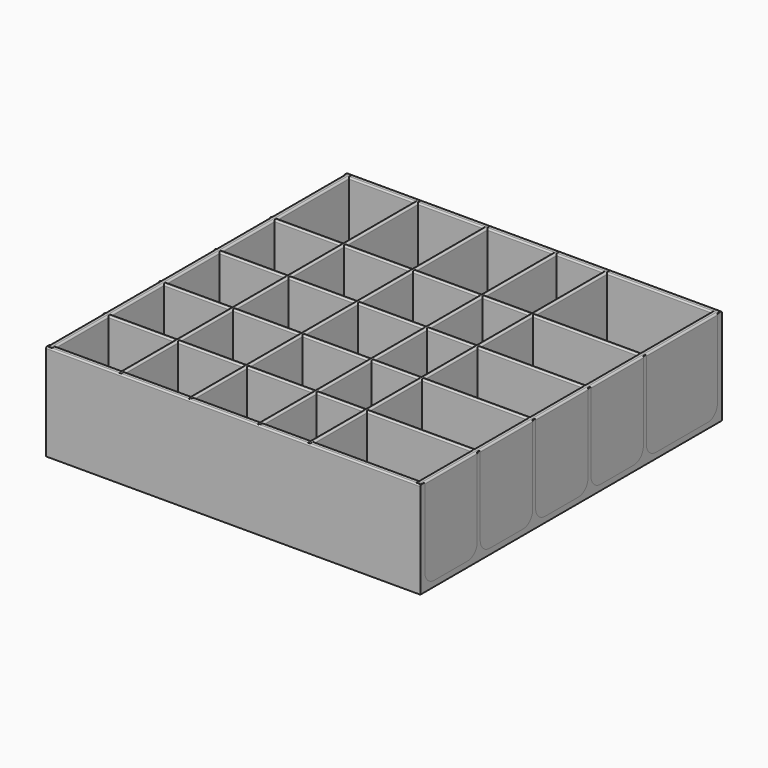
from build123d import *

# Parameters (mm, degrees)
F2_DEPTH = 100
F3_DEPTH = 100


with BuildPart() as f2:
    # F0 (on Front) → F2 (new body, symmetric)
    with BuildSketch(Plane.XZ):
        with BuildLine():
            Line((-68.35, -22.349771), (-90.65, -22.349771))
            ThreePointArc((-90.65, -22.349771), (-95.140128, -20.489899), (-97, -15.999771))
            Line((-97, -15.999771), (-97, 25.4))
            ThreePointArc((-97, 25.4), (-97.264245, 26.037945), (-97.90219, 26.30219))
            Line((-97.90219, 26.30219), (-99.09781, 26.30219))
            ThreePointArc((-99.09781, 26.30219), (-99.735755, 26.037945), (-100, 25.4))
            Line((-100, 25.4), (-100, -25.4))
            Line((-100, -25.4), (100, -25.4))
            Line((100, -25.4), (100, 25.399994))
            ThreePointArc((100, 25.399994), (99.735755, 26.037939), (99.09781, 26.302184))
            Line((99.09781, 26.302184), (97.90219, 26.302184))
            ThreePointArc((97.90219, 26.302184), (97.264245, 26.037939), (97, 25.399994))
            Line((97, 25.399994), (97, -15.999771))
            ThreePointArc((97, -15.999771), (95.140128, -20.489899), (90.65, -22.349771))
            Line((90.65, -22.349771), (47.35, -22.349771))
            ThreePointArc((47.35, -22.349771), (42.859872, -20.489899), (41, -15.999771))
            Line((41, -15.999771), (41, 25.399994))
            ThreePointArc((41, 25.399994), (40.735755, 26.037939), (40.09781, 26.302184))
            Line((40.09781, 26.302184), (39.90219, 26.302184))
            ThreePointArc((39.90219, 26.302184), (39.264245, 26.037939), (39, 25.399994))
            Line((39, 25.399994), (39, -15.999771))
            ThreePointArc((39, -15.999771), (37.140128, -20.489899), (32.65, -22.349771))
            Line((32.65, -22.349771), (20.35, -22.349771))
            ThreePointArc((20.35, -22.349771), (15.859872, -20.489899), (14, -15.999771))
            Line((14, -15.999771), (14, 25.399994))
            ThreePointArc((14, 25.399994), (13.735755, 26.037939), (13.09781, 26.302184))
            Line((13.09781, 26.302184), (12.90219, 26.302184))
            ThreePointArc((12.90219, 26.302184), (12.264245, 26.037939), (12, 25.399994))
            Line((12, 25.399994), (12, -15.999771))
            ThreePointArc((12, -15.999771), (10.140128, -20.489899), (5.65, -22.349771))
            Line((5.65, -22.349771), (-16.65, -22.349771))
            ThreePointArc((-16.65, -22.349771), (-21.140128, -20.489899), (-23, -15.999771))
            Line((-23, -15.999771), (-23, 25.399994))
            ThreePointArc((-23, 25.399994), (-23.264245, 26.037939), (-23.90219, 26.302184))
            Line((-23.90219, 26.302184), (-24.09781, 26.302184))
            ThreePointArc((-24.09781, 26.302184), (-24.735755, 26.037939), (-25, 25.399994))
            Line((-25, 25.399994), (-25, -15.999771))
            ThreePointArc((-25, -15.999771), (-26.859872, -20.489899), (-31.35, -22.349771))
            Line((-31.35, -22.349771), (-53.65, -22.349771))
            ThreePointArc((-53.65, -22.349771), (-58.140128, -20.489899), (-60, -15.999771))
            Line((-60, -15.999771), (-60, 25.399994))
            ThreePointArc((-60, 25.399994), (-60.264245, 26.037939), (-60.90219, 26.302184))
            Line((-60.90219, 26.302184), (-61.09781, 26.302184))
            ThreePointArc((-61.09781, 26.302184), (-61.735755, 26.037939), (-62, 25.399994))
            Line((-62, 25.399994), (-62, -15.999771))
            ThreePointArc((-62, -15.999771), (-63.859872, -20.489899), (-68.35, -22.349771))
        make_face()
    extrude(amount=F2_DEPTH, both=True)


with BuildPart() as f3:
    # F1 (on Right) → F3 (new body, symmetric)
    with BuildSketch(Plane.YZ):
        with BuildLine():
            Line((-100.671373, -25.4), (99.328627, -25.4))
            Line((99.328627, -25.4), (100.8, -25.4))
            Line((100.8, -25.4), (100.8, 25.4))
            ThreePointArc((100.8, 25.4), (100.576833, 25.938773), (100.03806, 26.16194))
            Line((100.03806, 26.16194), (98.56194, 26.16194))
            ThreePointArc((98.56194, 26.16194), (98.023167, 25.938773), (97.8, 25.4))
            Line((97.8, 25.4), (97.8, -16.05))
            ThreePointArc((97.8, -16.05), (95.940128, -20.540128), (91.45, -22.4))
            Line((91.45, -22.4), (56.678627, -22.4))
            ThreePointArc((56.678627, -22.4), (52.188499, -20.540128), (50.328627, -16.05))
            Line((50.328627, -16.05), (50.328627, 25.400006))
            ThreePointArc((50.328627, 25.400006), (50.10546, 25.938779), (49.566687, 26.161946))
            Line((49.566687, 26.161946), (49.090567, 26.161946))
            ThreePointArc((49.090567, 26.161946), (48.551794, 25.938779), (48.328627, 25.400006))
            Line((48.328627, 25.400006), (48.328627, -16.05))
            ThreePointArc((48.328627, -16.05), (46.468755, -20.540128), (41.978627, -22.4))
            Line((41.978627, -22.4), (19.678627, -22.4))
            ThreePointArc((19.678627, -22.4), (15.188499, -20.540128), (13.328627, -16.05))
            Line((13.328627, -16.05), (13.328627, 25.400006))
            ThreePointArc((13.328627, 25.400006), (13.10546, 25.938779), (12.566687, 26.161946))
            Line((12.566687, 26.161946), (12.090567, 26.161946))
            ThreePointArc((12.090567, 26.161946), (11.551794, 25.938779), (11.328627, 25.400006))
            Line((11.328627, 25.400006), (11.328627, -16.05))
            ThreePointArc((11.328627, -16.05), (9.468755, -20.540128), (4.978627, -22.4))
            Line((4.978627, -22.4), (-17.321373, -22.4))
            ThreePointArc((-17.321373, -22.4), (-21.811501, -20.540128), (-23.671373, -16.05))
            Line((-23.671373, -16.05), (-23.671373, 25.400006))
            ThreePointArc((-23.671373, 25.400006), (-23.89454, 25.938779), (-24.433313, 26.161946))
            Line((-24.433313, 26.161946), (-24.909433, 26.161946))
            ThreePointArc((-24.909433, 26.161946), (-25.448206, 25.938779), (-25.671373, 25.400006))
            Line((-25.671373, 25.400006), (-25.671373, -16.05))
            ThreePointArc((-25.671373, -16.05), (-27.531245, -20.540128), (-32.021373, -22.4))
            Line((-32.021373, -22.4), (-54.321373, -22.4))
            ThreePointArc((-54.321373, -22.4), (-58.811501, -20.540128), (-60.671373, -16.05))
            Line((-60.671373, -16.05), (-60.671373, 25.400006))
            ThreePointArc((-60.671373, 25.400006), (-60.89454, 25.938779), (-61.433313, 26.161946))
            Line((-61.433313, 26.161946), (-61.909433, 26.161946))
            ThreePointArc((-61.909433, 26.161946), (-62.448206, 25.938779), (-62.671373, 25.400006))
            Line((-62.671373, 25.400006), (-62.671373, -16.05))
            ThreePointArc((-62.671373, -16.05), (-64.531245, -20.540128), (-69.021373, -22.4))
            Line((-69.021373, -22.4), (-91.321373, -22.4))
            ThreePointArc((-91.321373, -22.4), (-95.811501, -20.540128), (-97.671373, -16.05))
            Line((-97.671373, -16.05), (-97.671373, 25.400006))
            ThreePointArc((-97.671373, 25.400006), (-97.89454, 25.938779), (-98.433313, 26.161946))
            Line((-98.433313, 26.161946), (-99.909433, 26.161946))
            ThreePointArc((-99.909433, 26.161946), (-100.448206, 25.938779), (-100.671373, 25.400006))
            Line((-100.671373, 25.400006), (-100.671373, -25.4))
        make_face()
    extrude(amount=F3_DEPTH, both=True)


solid = Compound([f2.part, f3.part])
